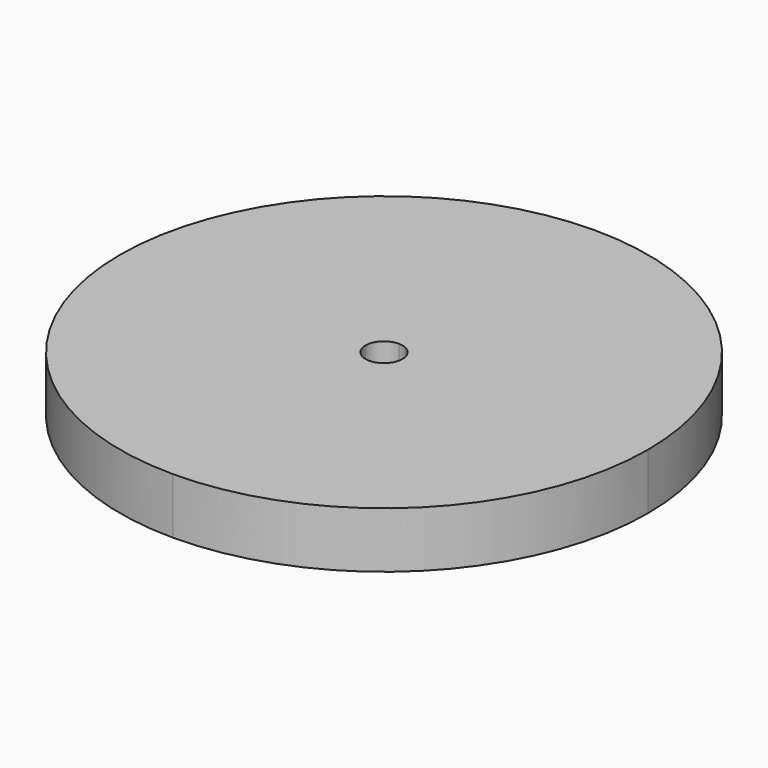
from build123d import *

# Parameters (mm, degrees)
F1_DEPTH = 13.462


with BuildPart() as f1:
    # F0 (on Top) → F1 (new body)
    with BuildSketch(Plane.XY):
        with BuildLine():
            ThreePointArc((0, -63.5), (44.901281, -44.901281), (63.5, 0))
            Line((63.5, 0), (4.445, 0))
            ThreePointArc((4.445, 0), (3.14309, -3.14309), (0, -4.445))
            Line((0, -4.445), (0, -63.5))
        make_face()
        with BuildLine():
            ThreePointArc((-63.5, 0), (-44.901281, -44.901281), (0, -63.5))
            Line((0, -63.5), (0, -4.445))
            ThreePointArc((0, -4.445), (-3.14309, -3.14309), (-4.445, 0))
            Line((-4.445, 0), (-63.5, 0))
        make_face()
        with BuildLine():
            Line((4.445, 0), (63.5, 0))
            ThreePointArc((63.5, 0), (44.901281, 44.901281), (0, 63.5))
            Line((0, 63.5), (0, 4.445))
            ThreePointArc((0, 4.445), (3.14309, 3.14309), (4.445, 0))
        make_face()
        with BuildLine():
            Line((0, 4.445), (0, 63.5))
            ThreePointArc((0, 63.5), (-44.901281, 44.901281), (-63.5, 0))
            Line((-63.5, 0), (-4.445, 0))
            ThreePointArc((-4.445, 0), (-3.14309, 3.14309), (0, 4.445))
        make_face()
    extrude(amount=-F1_DEPTH)


solid = f1.part
